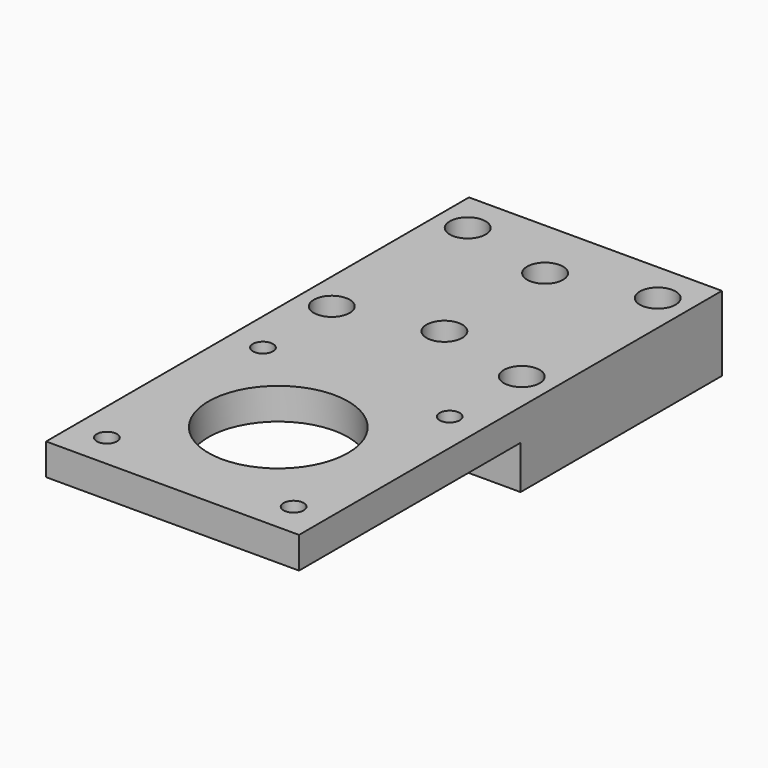
from build123d import *

# Parameters (mm, degrees)
F0_W      = 40.2
F0_H      = 40
F1_DEPTH  = 5.5
F2_R      = 2.85
F3_DEPTH  = 3.5
F4_R      = 1.6
F5_DEPTH  = 25
F6_W      = 4.8
F6_H      = 40
F7_DEPTH  = 2
F8_SIZE   = 1.8
F9_R      = 1.6
F10_DEPTH = 25
F11_R     = 2.85
F12_DEPTH = 3.5
F2_W      = 40.2
F2_H      = 40
F13_DEPTH = 6.4
F14_DEPTH = 25
F15_W     = 40.2
F15_H     = 5
F16_DEPTH = 44
F17_R     = 11.1
F17_R_2   = 1.6
F18_DEPTH = 25


with BuildPart() as f1:
    # F0 (on Top) → F1 (new body)
    with BuildSketch(Plane.XY):
        with Locations((20.1, 20)):
            Rectangle(F0_W, F0_H)
    extrude(amount=F1_DEPTH)

    # F2 (on face) → F3 (cut)
    with BuildSketch(Plane.XY.offset(5.5)):
        with Locations((35.2, 6.5)):
            Circle(F2_R)
        with Locations((35.2, 33.5)):
            Circle(F2_R)
        with Locations((5, 33.5)):
            Circle(F2_R)
        with Locations((5, 6.5)):
            Circle(F2_R)
    extrude(amount=-F3_DEPTH, mode=Mode.SUBTRACT)

    # F4 (on face) → F5 (cut)
    with BuildSketch(Plane.XY.offset(5.5)):
        with Locations((35.2, 33.5)):
            Circle(F4_R)
        with Locations((35.2, 6.5)):
            Circle(F4_R)
        with Locations((5, 33.5)):
            Circle(F4_R)
        with Locations((5, 6.5)):
            Circle(F4_R)
    extrude(amount=-F5_DEPTH, mode=Mode.SUBTRACT)

    # F6 (on face) → F7 (join)
    with BuildSketch(Plane(origin=(0, 0, 0), x_dir=(1, 0, 0), z_dir=(0, 0, -1))):
        with Locations((20.1, -20)):
            Rectangle(F6_W, F6_H)
    extrude(amount=F7_DEPTH)

    # F8
    f8_edges = [f1.edges().sort_by_distance(p)[0] for p in [
        (17.7, 20, -2),
        (22.5, 20, -2),
    ]]
    chamfer(f8_edges, length=F8_SIZE)

    # F9 (on face) → F10 (cut)
    with BuildSketch(Plane(origin=(0, 0, -2), x_dir=(1, 0, 0), z_dir=(0, 0, -1))):
        with Locations((20.1, -30)):
            Circle(F9_R)
        with Locations((20.1, -10)):
            Circle(F9_R)
    extrude(amount=-F10_DEPTH, mode=Mode.SUBTRACT)

    # F11 (on face) → F12 (cut)
    with BuildSketch(Plane.XY.offset(5.5)):
        with Locations((20.1, 30)):
            Circle(F11_R)
        with Locations((20.1, 10)):
            Circle(F11_R)
    extrude(amount=-F12_DEPTH, mode=Mode.SUBTRACT)

    # F2 (on face) → F13 (join)
    with BuildSketch(Plane.XY.offset(5.5)):
        with Locations((20.1, 20)):
            Rectangle(F2_W, F2_H)
        with Locations((5, 6.5)):
            Circle(F2_R, mode=Mode.SUBTRACT)
        with Locations((35.2, 6.5)):
            Circle(F2_R, mode=Mode.SUBTRACT)
        with Locations((5, 33.5)):
            Circle(F2_R, mode=Mode.SUBTRACT)
        with Locations((35.2, 33.5)):
            Circle(F2_R, mode=Mode.SUBTRACT)
    extrude(amount=F13_DEPTH)

    # F11 (on face) → F14 (cut)
    with BuildSketch(Plane.XY.offset(5.5)):
        with Locations((20.1, 30)):
            Circle(F11_R)
        with Locations((20.1, 10)):
            Circle(F11_R)
    extrude(amount=F14_DEPTH, mode=Mode.SUBTRACT)

    # F15 (on face) → F16 (join)
    with BuildSketch(Plane.XZ):
        with Locations((20.1, 9.4)):
            Rectangle(F15_W, F15_H)
    extrude(amount=F16_DEPTH)

    # F17 (on face) → F18 (cut)
    with BuildSketch(Plane.XY.offset(11.9)):
        with Locations((20.1, -23)):
            Circle(F17_R)
        with Locations((5.264286, -38.5)):
            Circle(F17_R_2)
        with Locations((34.935714, -38.5)):
            Circle(F17_R_2)
        with Locations((5.264286, -7.5)):
            Circle(F17_R_2)
        with Locations((34.935714, -7.5)):
            Circle(F17_R_2)
    extrude(amount=-F18_DEPTH, mode=Mode.SUBTRACT)


solid = f1.part
